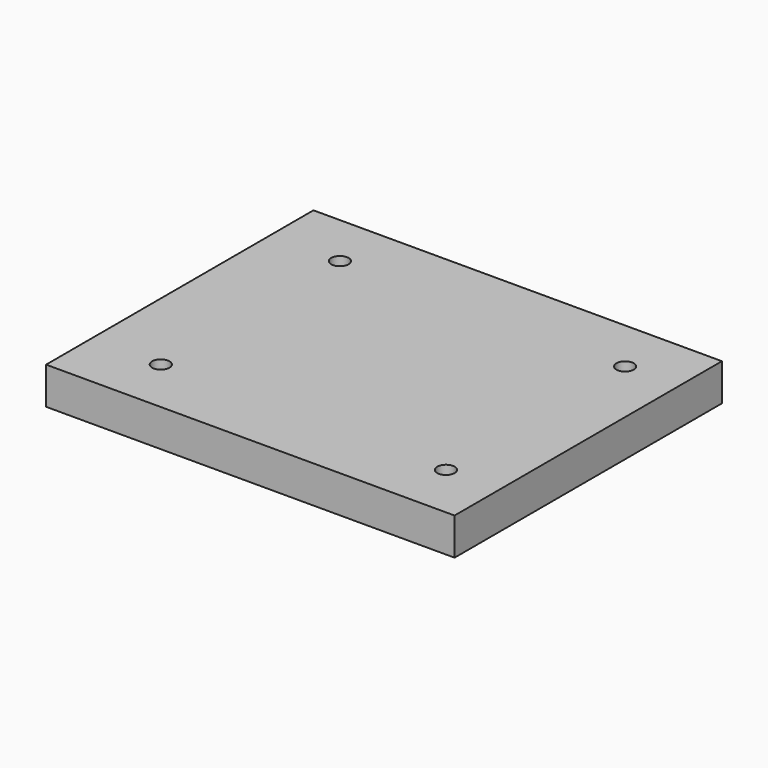
from build123d import *

# Parameters (mm, degrees)
SKETCH054_R                = 2.34
EXTRUDE056_DEPTH           = 20
EXTRUDE056_PLACEMENT_ANGLE = 90
SKETCH055_R                = 2.34
EXTRUDE057_DEPTH           = 20
EXTRUDE057_PLACEMENT_ANGLE = 90
SKETCH056_R                = 2.34
EXTRUDE058_DEPTH           = 20
EXTRUDE058_PLACEMENT_ANGLE = 90
SKETCH053_R                = 2.34
EXTRUDE055_DEPTH           = 20
EXTRUDE055_PLACEMENT_ANGLE = 90
SKETCH023_W                = 110
SKETCH023_H                = 90
EXTRUDE026_DEPTH           = 10


with BuildPart() as tornillos012:
    # Sketch054 → Extrude056 (new body)
    with BuildSketch(Plane(origin=(-98, -107, 0), x_dir=(0, -1, 0), z_dir=(-1, 0, 0))):
        with Locations((-135.006037, 30)):
            Circle(SKETCH054_R)
    extrude(amount=EXTRUDE056_DEPTH)


with BuildPart() as tornillos012_1:
    # Extrude056 placement: moved
    add(tornillos012.part.moved(Location((-27.2, 47.4, 257.8))).rotate(Axis((-27.2, 47.4, 257.8), (0, -1, 0)), EXTRUDE056_PLACEMENT_ANGLE))


with BuildPart() as tornillos013:
    # Sketch055 → Extrude057 (new body)
    with BuildSketch(Plane(origin=(-98, -107, 0), x_dir=(0, -1, 0), z_dir=(-1, 0, 0))):
        with Locations((-135.006037, 30)):
            Circle(SKETCH055_R)
    extrude(amount=EXTRUDE057_DEPTH)


with BuildPart() as tornillos013_1:
    # Extrude057 placement: moved
    add(tornillos013.part.moved(Location((49.6, -12.9, 257.8))).rotate(Axis((49.6, -12.9, 257.8), (0, -1, 0)), EXTRUDE057_PLACEMENT_ANGLE))


with BuildPart() as tornillos014:
    # Sketch056 → Extrude058 (new body)
    with BuildSketch(Plane(origin=(-98, -107, 0), x_dir=(0, -1, 0), z_dir=(-1, 0, 0))):
        with Locations((-135.006037, 30)):
            Circle(SKETCH056_R)
    extrude(amount=EXTRUDE058_DEPTH)


with BuildPart() as tornillos014_1:
    # Extrude058 placement: moved
    add(tornillos014.part.moved(Location((49.6, 47.4, 257.8))).rotate(Axis((49.6, 47.4, 257.8), (0, -1, 0)), EXTRUDE058_PLACEMENT_ANGLE))


with BuildPart() as tornillos011:
    # Sketch053 → Extrude055 (new body)
    with BuildSketch(Plane(origin=(-98, -107, 0), x_dir=(0, -1, 0), z_dir=(-1, 0, 0))):
        with Locations((-135.006037, 30)):
            Circle(SKETCH053_R)
    extrude(amount=EXTRUDE055_DEPTH)


with BuildPart() as tornillos011_1:
    # Extrude055 placement: moved
    add(tornillos011.part.moved(Location((-27.2, -12.9, 257.8))).rotate(Axis((-27.2, -12.9, 257.8), (0, -1, 0)), EXTRUDE055_PLACEMENT_ANGLE))


with BuildPart() as obj1:
    # Sketch023 → Extrude026 (new body)
    with BuildSketch(Plane.XY):
        with Locations((-45, 45)):
            Rectangle(SKETCH023_W, SKETCH023_H)
    extrude(amount=EXTRUDE026_DEPTH)


with BuildPart() as obj1_1:
    # Extrude026 placement: moved
    add(obj1.part.moved(Location((24, 0, 148))))

    # Cut026: cut Tornillos011
    add(tornillos011_1.part, mode=Mode.SUBTRACT)

    # Cut027: cut Tornillos014
    add(tornillos014_1.part, mode=Mode.SUBTRACT)

    # Cut028: cut Tornillos013
    add(tornillos013_1.part, mode=Mode.SUBTRACT)

    # Cut029: cut Tornillos012
    add(tornillos012_1.part, mode=Mode.SUBTRACT)


solid = obj1_1.part
